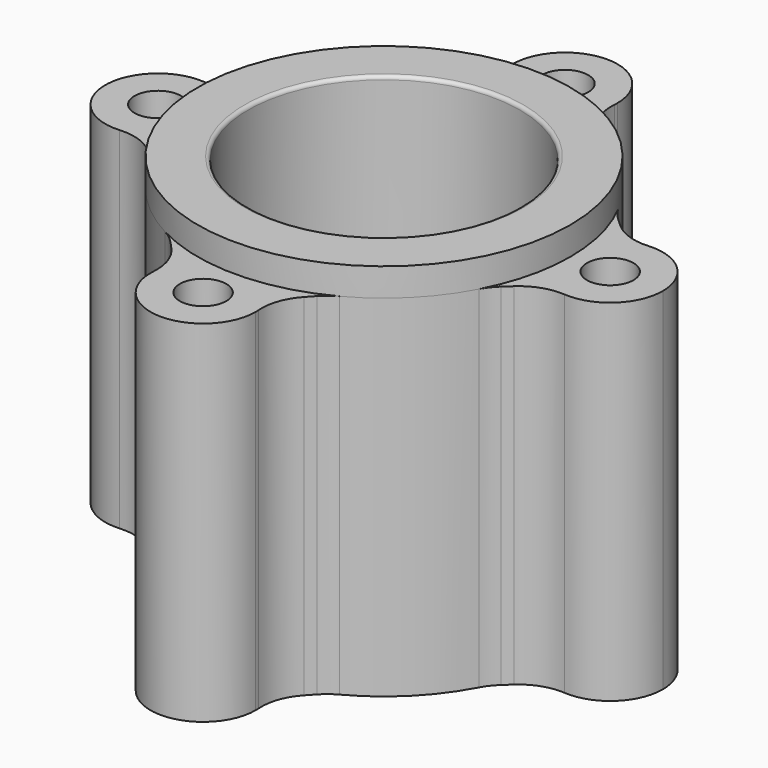
from build123d import *

# Parameters (mm, degrees)
F0_R     = 3.3655
F0_R_2   = 20.32
F1_DEPTH = 50.8
F2_R     = 7.62
F3_R     = 26.9875
F3_R_2   = 19.685
F4_DEPTH = 54.864
F5_R     = 0.508


with BuildPart() as f1:
    # F0 (on Top) → F1 (new body)
    with BuildSketch(Plane.XY):
        with BuildLine():
            ThreePointArc((-11.5499308761, 24.3910691239), (-8.0975226707, 25.7440339273), (-4.4922459427, 26.6109917636))
            ThreePointArc((-4.4922459427, 26.6109917636), (-5.8575862517, 27.8922864976), (-6.8692513658, 29.4678511747))
            Line((-6.8692513658, 29.4678511747), (-11.5499308761, 24.3910691239))
        make_face()
        with BuildLine():
            ThreePointArc((4.4922459427, 26.6109917636), (8.0975226707, 25.7440339273), (11.5499308761, 24.3910691239))
            Line((11.5499308761, 24.3910691239), (6.8692513658, 29.4678511747))
            ThreePointArc((6.8692513658, 29.4678511747), (5.8575862517, 27.8922864976), (4.4922459427, 26.6109917636))
        make_face()
        with BuildLine():
            ThreePointArc((-4.4922459427, 26.6109917636), (0, 26.9875), (4.4922459427, 26.6109917636))
            ThreePointArc((4.4922459427, 26.6109917636), (5.8575862517, 27.8922864976), (6.8692513658, 29.4678511747))
            ThreePointArc((6.8692513658, 29.4678511747), (7.4299426447, 31.0747423921), (7.62, 32.766))
            ThreePointArc((7.62, 32.766), (-1.6912576079, 40.1959426447), (-6.8692513658, 29.4678511747))
            ThreePointArc((-6.8692513658, 29.4678511747), (-5.8575862517, 27.8922864976), (-4.4922459427, 26.6109917636))
        make_face()
        with Locations((0, 32.766)):
            Circle(F0_R, mode=Mode.SUBTRACT)
        with BuildLine():
            ThreePointArc((-4.4922459427, 26.6109917636), (0, 25.146), (4.4922459427, 26.6109917636))
            ThreePointArc((4.4922459427, 26.6109917636), (0, 26.9875), (-4.4922459427, 26.6109917636))
        make_face()
        with BuildLine():
            ThreePointArc((-26.6109917636, 4.4922459427), (-25.7440339273, 8.0975226707), (-24.3910691239, 11.5499308761))
            Line((-24.3910691239, 11.5499308761), (-29.4678511747, 6.8692513658))
            ThreePointArc((-29.4678511747, 6.8692513658), (-27.8922864976, 5.8575862517), (-26.6109917636, 4.4922459427))
        make_face()
        with BuildLine():
            ThreePointArc((-26.6109917636, -4.4922459427), (-26.9875, 0), (-26.6109917636, 4.4922459427))
            ThreePointArc((-26.6109917636, 4.4922459427), (-27.8922864976, 5.8575862517), (-29.4678511747, 6.8692513658))
            ThreePointArc((-29.4678511747, 6.8692513658), (-40.386, 0), (-29.4678511747, -6.8692513658))
            ThreePointArc((-29.4678511747, -6.8692513658), (-27.8922864976, -5.8575862517), (-26.6109917636, -4.4922459427))
        make_face()
        with Locations((-32.766, 0)):
            Circle(F0_R, mode=Mode.SUBTRACT)
        with BuildLine():
            ThreePointArc((-25.146, 0), (-25.521499922, 2.3625449454), (-26.6109917636, 4.4922459427))
            ThreePointArc((-26.6109917636, 4.4922459427), (-26.9875, 0), (-26.6109917636, -4.4922459427))
            ThreePointArc((-26.6109917636, -4.4922459427), (-25.521499922, -2.3625449454), (-25.146, 0))
        make_face()
        with BuildLine():
            ThreePointArc((-24.3910691239, -11.5499308761), (-25.7440339273, -8.0975226707), (-26.6109917636, -4.4922459427))
            ThreePointArc((-26.6109917636, -4.4922459427), (-27.8922864976, -5.8575862517), (-29.4678511747, -6.8692513658))
            Line((-29.4678511747, -6.8692513658), (-24.3910691239, -11.5499308761))
        make_face()
        with BuildLine():
            ThreePointArc((-6.8692513658, -29.4678511747), (-5.8575862517, -27.8922864976), (-4.4922459427, -26.6109917636))
            ThreePointArc((-4.4922459427, -26.6109917636), (-8.0975226707, -25.7440339273), (-11.5499308761, -24.3910691239))
            Line((-11.5499308761, -24.3910691239), (-6.8692513658, -29.4678511747))
        make_face()
        with BuildLine():
            ThreePointArc((-4.4922459427, -26.6109917636), (0, -26.9875), (4.4922459427, -26.6109917636))
            ThreePointArc((4.4922459427, -26.6109917636), (0, -25.146), (-4.4922459427, -26.6109917636))
        make_face()
        with BuildLine():
            ThreePointArc((6.8692513658, -29.4678511747), (5.8575862517, -27.8922864976), (4.4922459427, -26.6109917636))
            ThreePointArc((4.4922459427, -26.6109917636), (0, -26.9875), (-4.4922459427, -26.6109917636))
            ThreePointArc((-4.4922459427, -26.6109917636), (-5.8575862517, -27.8922864976), (-6.8692513658, -29.4678511747))
            ThreePointArc((-6.8692513658, -29.4678511747), (-1.6912576079, -40.1959426447), (7.62, -32.766))
            ThreePointArc((7.62, -32.766), (7.4299426447, -31.0747423921), (6.8692513658, -29.4678511747))
        make_face()
        with Locations((0, -32.766)):
            Circle(F0_R, mode=Mode.SUBTRACT)
        with BuildLine():
            Line((6.8692513658, -29.4678511747), (11.5499308761, -24.3910691239))
            ThreePointArc((11.5499308761, -24.3910691239), (8.0975226707, -25.7440339273), (4.4922459427, -26.6109917636))
            ThreePointArc((4.4922459427, -26.6109917636), (5.8575862517, -27.8922864976), (6.8692513658, -29.4678511747))
        make_face()
        with BuildLine():
            ThreePointArc((29.4678511747, -6.8692513658), (27.8922864976, -5.8575862517), (26.6109917636, -4.4922459427))
            ThreePointArc((26.6109917636, -4.4922459427), (25.7440339273, -8.0975226707), (24.3910691239, -11.5499308761))
            Line((24.3910691239, -11.5499308761), (29.4678511747, -6.8692513658))
        make_face()
        with BuildLine():
            ThreePointArc((29.4678511747, 6.8692513658), (27.8922864976, 5.8575862517), (26.6109917636, 4.4922459427))
            ThreePointArc((26.6109917636, 4.4922459427), (26.8932082176, 2.2539982288), (26.9875, 0))
            ThreePointArc((26.9875, 0), (26.8932082176, -2.2539982288), (26.6109917636, -4.4922459427))
            ThreePointArc((26.6109917636, -4.4922459427), (27.8922864976, -5.8575862517), (29.4678511747, -6.8692513658))
            ThreePointArc((29.4678511747, -6.8692513658), (36.8238631046, -6.4496625512), (40.386, 0))
            ThreePointArc((40.386, 0), (36.8238631046, 6.4496625512), (29.4678511747, 6.8692513658))
        make_face()
        with Locations((32.766, 0)):
            Circle(F0_R, mode=Mode.SUBTRACT)
        with BuildLine():
            ThreePointArc((26.9875, 0), (26.8932082176, 2.2539982288), (26.6109917636, 4.4922459427))
            ThreePointArc((26.6109917636, 4.4922459427), (25.146, 0), (26.6109917636, -4.4922459427))
            ThreePointArc((26.6109917636, -4.4922459427), (26.8932082176, -2.2539982288), (26.9875, 0))
        make_face()
        with BuildLine():
            Line((29.4678511747, 6.8692513658), (24.3910691239, 11.5499308761))
            ThreePointArc((24.3910691239, 11.5499308761), (25.7440339273, 8.0975226707), (26.6109917636, 4.4922459427))
            ThreePointArc((26.6109917636, 4.4922459427), (27.8922864976, 5.8575862517), (29.4678511747, 6.8692513658))
        make_face()
        with BuildLine():
            ThreePointArc((26.6109917636, 4.4922459427), (25.7440339273, 8.0975226707), (24.3910691239, 11.5499308761))
            ThreePointArc((24.3910691239, 11.5499308761), (19.0830442573, 19.0830442573), (11.5499308761, 24.3910691239))
            ThreePointArc((11.5499308761, 24.3910691239), (8.0975226707, 25.7440339273), (4.4922459427, 26.6109917636))
            ThreePointArc((4.4922459427, 26.6109917636), (0, 25.146), (-4.4922459427, 26.6109917636))
            ThreePointArc((-4.4922459427, 26.6109917636), (-8.0975226707, 25.7440339273), (-11.5499308761, 24.3910691239))
            ThreePointArc((-11.5499308761, 24.3910691239), (-19.0830442573, 19.0830442573), (-24.3910691239, 11.5499308761))
            ThreePointArc((-24.3910691239, 11.5499308761), (-25.7440339273, 8.0975226707), (-26.6109917636, 4.4922459427))
            ThreePointArc((-26.6109917636, 4.4922459427), (-25.521499922, 2.3625449454), (-25.146, 0))
            ThreePointArc((-25.146, 0), (-25.521499922, -2.3625449454), (-26.6109917636, -4.4922459427))
            ThreePointArc((-26.6109917636, -4.4922459427), (-25.7440339273, -8.0975226707), (-24.3910691239, -11.5499308761))
            ThreePointArc((-24.3910691239, -11.5499308761), (-19.0830442573, -19.0830442573), (-11.5499308761, -24.3910691239))
            ThreePointArc((-11.5499308761, -24.3910691239), (-8.0975226707, -25.7440339273), (-4.4922459427, -26.6109917636))
            ThreePointArc((-4.4922459427, -26.6109917636), (0, -25.146), (4.4922459427, -26.6109917636))
            ThreePointArc((4.4922459427, -26.6109917636), (8.0975226707, -25.7440339273), (11.5499308761, -24.3910691239))
            ThreePointArc((11.5499308761, -24.3910691239), (19.0830442573, -19.0830442573), (24.3910691239, -11.5499308761))
            ThreePointArc((24.3910691239, -11.5499308761), (25.7440339273, -8.0975226707), (26.6109917636, -4.4922459427))
            ThreePointArc((26.6109917636, -4.4922459427), (25.146, 0), (26.6109917636, 4.4922459427))
        make_face()
        Circle(F0_R_2, mode=Mode.SUBTRACT)
        with BuildLine():
            ThreePointArc((-4.4922459427, 26.6109917636), (0, 26.9875), (4.4922459427, 26.6109917636))
            ThreePointArc((4.4922459427, 26.6109917636), (5.8575862517, 27.8922864976), (6.8692513658, 29.4678511747))
            ThreePointArc((6.8692513658, 29.4678511747), (7.4299426447, 31.0747423921), (7.62, 32.766))
            ThreePointArc((7.62, 32.766), (-1.6912576079, 40.1959426447), (-6.8692513658, 29.4678511747))
            ThreePointArc((-6.8692513658, 29.4678511747), (-5.8575862517, 27.8922864976), (-4.4922459427, 26.6109917636))
        make_face()
        with Locations((0, 32.766)):
            Circle(F0_R, mode=Mode.SUBTRACT)
        with BuildLine():
            ThreePointArc((-26.6109917636, -4.4922459427), (-26.9875, 0), (-26.6109917636, 4.4922459427))
            ThreePointArc((-26.6109917636, 4.4922459427), (-27.8922864976, 5.8575862517), (-29.4678511747, 6.8692513658))
            ThreePointArc((-29.4678511747, 6.8692513658), (-40.386, 0), (-29.4678511747, -6.8692513658))
            ThreePointArc((-29.4678511747, -6.8692513658), (-27.8922864976, -5.8575862517), (-26.6109917636, -4.4922459427))
        make_face()
        with Locations((-32.766, 0)):
            Circle(F0_R, mode=Mode.SUBTRACT)
        with BuildLine():
            ThreePointArc((29.4678511747, 6.8692513658), (27.8922864976, 5.8575862517), (26.6109917636, 4.4922459427))
            ThreePointArc((26.6109917636, 4.4922459427), (26.8932082176, 2.2539982288), (26.9875, 0))
            ThreePointArc((26.9875, 0), (26.8932082176, -2.2539982288), (26.6109917636, -4.4922459427))
            ThreePointArc((26.6109917636, -4.4922459427), (27.8922864976, -5.8575862517), (29.4678511747, -6.8692513658))
            ThreePointArc((29.4678511747, -6.8692513658), (36.8238631046, -6.4496625512), (40.386, 0))
            ThreePointArc((40.386, 0), (36.8238631046, 6.4496625512), (29.4678511747, 6.8692513658))
        make_face()
        with Locations((32.766, 0)):
            Circle(F0_R, mode=Mode.SUBTRACT)
        with BuildLine():
            ThreePointArc((6.8692513658, -29.4678511747), (5.8575862517, -27.8922864976), (4.4922459427, -26.6109917636))
            ThreePointArc((4.4922459427, -26.6109917636), (0, -26.9875), (-4.4922459427, -26.6109917636))
            ThreePointArc((-4.4922459427, -26.6109917636), (-5.8575862517, -27.8922864976), (-6.8692513658, -29.4678511747))
            ThreePointArc((-6.8692513658, -29.4678511747), (-1.6912576079, -40.1959426447), (7.62, -32.766))
            ThreePointArc((7.62, -32.766), (7.4299426447, -31.0747423921), (6.8692513658, -29.4678511747))
        make_face()
        with Locations((0, -32.766)):
            Circle(F0_R, mode=Mode.SUBTRACT)
    extrude(amount=F1_DEPTH)

    # F2
    f2_edges = [f1.edges().sort_by_distance(p)[0] for p in [
        (-6.869251, 29.467851, 25.4),
        (-29.467851, 6.869251, 25.4),
        (-29.467851, -6.869251, 25.4),
        (-24.391069, -11.549931, 25.4),
        (-11.549931, -24.391069, 25.4),
        (-6.869251, -29.467851, 25.4),
        (6.869251, -29.467851, 25.4),
        (11.549931, -24.391069, 25.4),
        (24.391069, -11.549931, 25.4),
        (29.467851, -6.869251, 25.4),
        (29.467851, 6.869251, 25.4),
        (24.391069, 11.549931, 25.4),
        (11.549931, 24.391069, 25.4),
        (6.869251, 29.467851, 25.4),
        (-11.549931, 24.391069, 25.4),
        (-24.391069, 11.549931, 25.4),
    ]]
    fillet(f2_edges, radius=F2_R)

    # F3 (on Top) → F4 (join)
    with BuildSketch(Plane.XY):
        Circle(F3_R)
        Circle(F3_R_2, mode=Mode.SUBTRACT)
    extrude(amount=F4_DEPTH)

    # F5
    f5_edges = [f1.edges().sort_by_distance(p)[0] for p in [
        (-19.685, 0, 54.864),
        (-19.685, 0, 0),
    ]]
    fillet(f5_edges, radius=F5_R)


solid = f1.part
